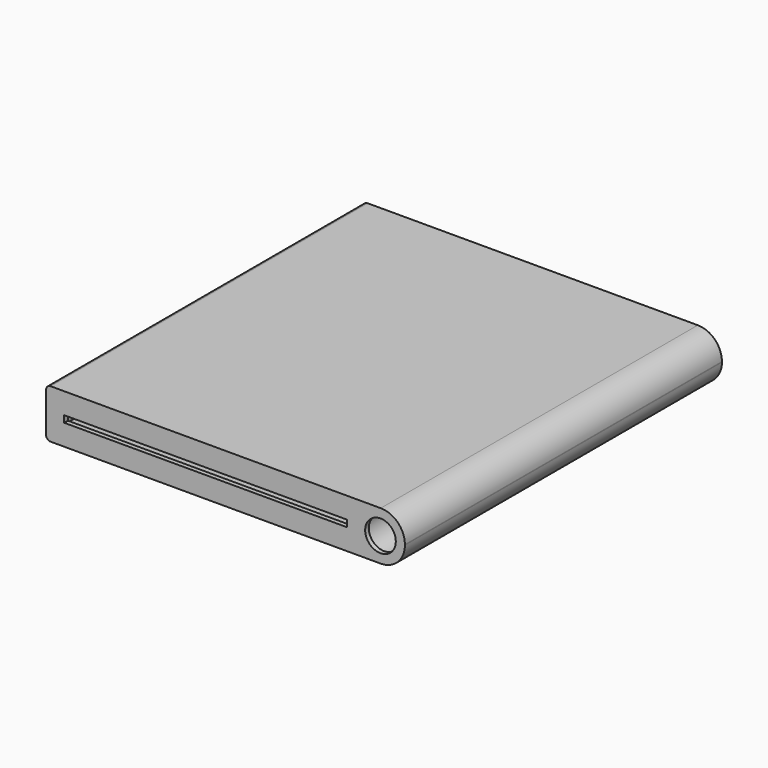
from build123d import *

# Parameters (mm, degrees)
SKETCH_W     = 126.4
SKETCH_H     = 17.2
SKETCH_R     = 7
SKETCH_W_2   = 106
SKETCH_H_2   = 8.75
PAD_DEPTH    = 138
SKETCH001_W  = 126.4
SKETCH001_H  = 17.2
SKETCH001_R  = 5.4
PAD001_DEPTH = 1.6
FILLET_R     = 8.5
FILLET001_R  = 1.6
SKETCH002_W  = 99.6
SKETCH002_H  = 2.35
POCKET_DEPTH = 5


with BuildPart() as part:
    # Sketch → Pad (new body)
    with BuildSketch(Plane.XZ):
        with Locations((7, 0)):
            Rectangle(SKETCH_W, SKETCH_H)
        with Locations((61.6, 0)):
            Circle(SKETCH_R, mode=Mode.SUBTRACT)
        Rectangle(SKETCH_W_2, SKETCH_H_2, mode=Mode.SUBTRACT)
    extrude(amount=PAD_DEPTH)

    # Sketch001 (on Face11 of Pad) → Pad001 (join)
    with BuildSketch(Plane.XZ.offset(138)):
        with Locations((7, 0)):
            Rectangle(SKETCH001_W, SKETCH001_H)
        with Locations((61.6, 0)):
            Circle(SKETCH001_R, mode=Mode.SUBTRACT)
    extrude(amount=PAD001_DEPTH)

    # Fillet
    fillet_edges = [part.edges().sort_by_distance(p)[0] for p in [
        (70.2, -69.8, 8.6),
        (70.2, -69.8, -8.6),
    ]]
    fillet(fillet_edges, radius=FILLET_R)

    # Fillet001
    fillet001_edges = [part.edges().sort_by_distance(p)[0] for p in [
        (-56.2, -69.8, 8.6),
        (-56.2, -69.8, -8.6),
    ]]
    fillet(fillet001_edges, radius=FILLET001_R)

    # Sketch002 (on Face16 of Fillet001) → Pocket (cut)
    with BuildSketch(Plane(origin=(0, -138, 0), x_dir=(1, 0, 0), z_dir=(0, 1, 0))):
        Rectangle(SKETCH002_W, SKETCH002_H)
    extrude(amount=-POCKET_DEPTH, mode=Mode.SUBTRACT)


solid = part.part
